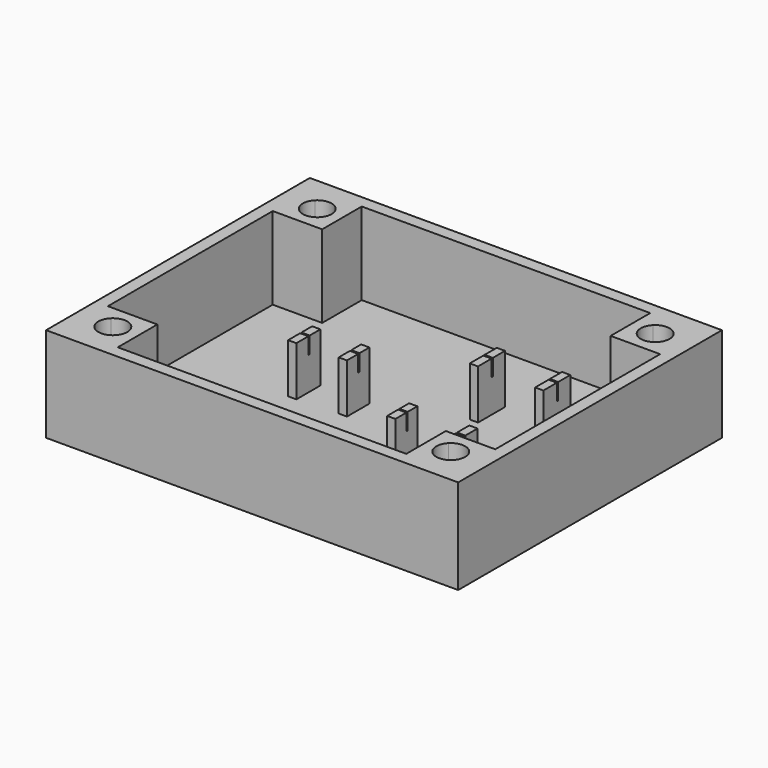
from build123d import *

# Parameters (mm, degrees)
F0_W      = 50
F0_H      = 40
F1_DEPTH  = 1.5
F2_W      = 50
F2_H      = 40
F3_DEPTH  = 10
F5_DEPTH  = 10
F7_DEPTH  = 10
F9_DEPTH  = 10
F11_DEPTH = 10
F14_W     = 1
F14_H     = 4.08333
F15_DEPTH = 6
F16_W     = 1
F16_H     = 0.2
F17_DEPTH = 2
F18_W     = 1
F18_H     = 3.60977
F19_DEPTH = 6
F20_W     = 1
F20_H     = 0.2
F21_DEPTH = 2
F22_W     = 1
F22_H     = 4.091013
F23_DEPTH = 6
F24_W     = 1
F24_H     = 0.2
F25_DEPTH = 2
F26_W     = 1
F26_H     = 3.330472
F27_DEPTH = 6
F28_W     = 1
F28_H     = 0.2
F29_DEPTH = 2
F30_W     = 1
F30_H     = 3.411457
F31_DEPTH = 6
F32_W     = 1
F32_H     = 0.2
F33_DEPTH = 2
F34_W     = 1
F34_H     = 3.646998
F35_DEPTH = 6
F36_W     = 1
F36_H     = 0.2
F37_DEPTH = 2


with BuildPart() as f1:
    # F0 (on Top) → F1 (new body)
    with BuildSketch(Plane.XY):
        with Locations((1.654343, -10.769538)):
            Rectangle(F0_W, F0_H)
    extrude(amount=F1_DEPTH)

    # F2 (on face) → F3 (join)
    with BuildSketch(Plane.XY.offset(1.5)):
        with Locations((1.654343, -10.769538)):
            Rectangle(F2_W, F2_H)
        Polygon((-21.845657, -29.269538), (-21.845657, 7.730462), (19.154343, 7.730462), (25.154343, 7.730462), (25.154343, 1.730462), (25.154343, -29.269538), align=None, mode=Mode.SUBTRACT)
    extrude(amount=F3_DEPTH)

    # F4 (on face) → F5 (join)
    with BuildSketch(Plane.XY.offset(1.5)):
        with BuildLine():
            Line((-20.083094, 5.967899), (-21.845657, 7.730462))
            Line((-21.845657, 7.730462), (-21.845657, 1.730462))
            Line((-21.845657, 1.730462), (-20.083094, 3.493025))
            ThreePointArc((-20.083094, 3.493025), (-20.595657, 4.730462), (-20.083094, 5.967899))
        make_face()
        with BuildLine():
            Line((-15.845657, 7.730462), (-21.845657, 7.730462))
            Line((-21.845657, 7.730462), (-20.083094, 5.967899))
            ThreePointArc((-20.083094, 5.967899), (-18.845657, 6.480462), (-17.60822, 5.967899))
            Line((-17.60822, 5.967899), (-15.845657, 7.730462))
        make_face()
        with BuildLine():
            Line((-15.845657, 1.730462), (-15.845657, 7.730462))
            Line((-15.845657, 7.730462), (-17.60822, 5.967899))
            ThreePointArc((-17.60822, 5.967899), (-17.228868, 5.400158), (-17.095657, 4.730462))
            ThreePointArc((-17.095657, 4.730462), (-17.228868, 4.060766), (-17.60822, 3.493025))
            Line((-17.60822, 3.493025), (-15.845657, 1.730462))
        make_face()
        with BuildLine():
            Line((-20.083094, 3.493025), (-21.845657, 1.730462))
            Line((-21.845657, 1.730462), (-15.845657, 1.730462))
            Line((-15.845657, 1.730462), (-17.60822, 3.493025))
            ThreePointArc((-17.60822, 3.493025), (-18.845657, 2.980462), (-20.083094, 3.493025))
        make_face()
    extrude(amount=F5_DEPTH)

    # F6 (on face) → F7 (join)
    with BuildSketch(Plane.XY.offset(1.5)):
        with BuildLine():
            Line((-20.083094, -27.506975), (-21.845657, -29.269538))
            Line((-21.845657, -29.269538), (-15.845657, -29.269538))
            Line((-15.845657, -29.269538), (-17.60822, -27.506975))
            ThreePointArc((-17.60822, -27.506975), (-18.845657, -28.019538), (-20.083094, -27.506975))
        make_face()
        with BuildLine():
            Line((-21.845657, -23.269538), (-21.845657, -29.269538))
            Line((-21.845657, -29.269538), (-20.083094, -27.506975))
            ThreePointArc((-20.083094, -27.506975), (-20.595657, -26.269538), (-20.083094, -25.032101))
            Line((-20.083094, -25.032101), (-21.845657, -23.269538))
        make_face()
        with BuildLine():
            Line((-17.60822, -27.506975), (-15.845657, -29.269538))
            Line((-15.845657, -29.269538), (-15.845657, -23.269538))
            Line((-15.845657, -23.269538), (-17.60822, -25.032101))
            ThreePointArc((-17.60822, -25.032101), (-17.228868, -25.599842), (-17.095657, -26.269538))
            ThreePointArc((-17.095657, -26.269538), (-17.228868, -26.939234), (-17.60822, -27.506975))
        make_face()
        with BuildLine():
            Line((-15.845657, -23.269538), (-21.845657, -23.269538))
            Line((-21.845657, -23.269538), (-20.083094, -25.032101))
            ThreePointArc((-20.083094, -25.032101), (-18.845657, -24.519538), (-17.60822, -25.032101))
            Line((-17.60822, -25.032101), (-15.845657, -23.269538))
        make_face()
    extrude(amount=F7_DEPTH)

    # F8 (on face) → F9 (join)
    with BuildSketch(Plane.XY.offset(1.5)):
        with BuildLine():
            Line((23.39178, 5.967899), (25.154343, 7.730462))
            Line((25.154343, 7.730462), (19.154343, 7.730462))
            Line((19.154343, 7.730462), (20.916906, 5.967899))
            ThreePointArc((20.916906, 5.967899), (22.154343, 6.480462), (23.39178, 5.967899))
        make_face()
        with BuildLine():
            Line((25.154343, 1.730462), (25.154343, 7.730462))
            Line((25.154343, 7.730462), (23.39178, 5.967899))
            ThreePointArc((23.39178, 5.967899), (23.771132, 5.400158), (23.904343, 4.730462))
            ThreePointArc((23.904343, 4.730462), (23.771132, 4.060766), (23.39178, 3.493025))
            Line((23.39178, 3.493025), (25.154343, 1.730462))
        make_face()
        with BuildLine():
            Line((20.916906, 5.967899), (19.154343, 7.730462))
            Line((19.154343, 7.730462), (19.154343, 1.730462))
            Line((19.154343, 1.730462), (20.916906, 3.493025))
            ThreePointArc((20.916906, 3.493025), (20.404343, 4.730462), (20.916906, 5.967899))
        make_face()
        with BuildLine():
            Line((19.154343, 1.730462), (25.154343, 1.730462))
            Line((25.154343, 1.730462), (23.39178, 3.493025))
            ThreePointArc((23.39178, 3.493025), (22.154343, 2.980462), (20.916906, 3.493025))
            Line((20.916906, 3.493025), (19.154343, 1.730462))
        make_face()
    extrude(amount=F9_DEPTH)

    # F10 (on face) → F11 (join)
    with BuildSketch(Plane.XY.offset(1.5)):
        with BuildLine():
            Line((23.39178, -27.506975), (25.154343, -29.269538))
            Line((25.154343, -29.269538), (25.154343, -23.269538))
            Line((25.154343, -23.269538), (23.39178, -25.032101))
            ThreePointArc((23.39178, -25.032101), (23.771132, -25.599842), (23.904343, -26.269538))
            ThreePointArc((23.904343, -26.269538), (23.771132, -26.939234), (23.39178, -27.506975))
        make_face()
        with BuildLine():
            Line((19.154343, -29.269538), (25.154343, -29.269538))
            Line((25.154343, -29.269538), (23.39178, -27.506975))
            ThreePointArc((23.39178, -27.506975), (22.154343, -28.019538), (20.916906, -27.506975))
            Line((20.916906, -27.506975), (19.154343, -29.269538))
        make_face()
        with BuildLine():
            Line((19.154343, -23.269538), (19.154343, -29.269538))
            Line((19.154343, -29.269538), (20.916906, -27.506975))
            ThreePointArc((20.916906, -27.506975), (20.404343, -26.269538), (20.916906, -25.032101))
            Line((20.916906, -25.032101), (19.154343, -23.269538))
        make_face()
        with BuildLine():
            Line((23.39178, -25.032101), (25.154343, -23.269538))
            Line((25.154343, -23.269538), (19.154343, -23.269538))
            Line((19.154343, -23.269538), (20.916906, -25.032101))
            ThreePointArc((20.916906, -25.032101), (22.154343, -24.519538), (23.39178, -25.032101))
        make_face()
    extrude(amount=F11_DEPTH)

    # F14 (on face) → F15 (join)
    with BuildSketch(Plane.XY.offset(1.5)):
        with Locations((15.880012, -2.9618)):
            Rectangle(F14_W, F14_H)
    extrude(amount=F15_DEPTH)

    # F16 (on face) → F17 (cut)
    with BuildSketch(Plane.XY.offset(7.5)):
        with Locations((15.880012, -2.8618)):
            Rectangle(F16_W, F16_H)
    extrude(amount=-F17_DEPTH, mode=Mode.SUBTRACT)

    # F18 (on face) → F19 (join)
    with BuildSketch(Plane.XY.offset(1.5)):
        with Locations((15.880012, -16.79546)):
            Rectangle(F18_W, F18_H)
    extrude(amount=F19_DEPTH)

    # F20 (on face) → F21 (cut)
    with BuildSketch(Plane.XY.offset(7.5)):
        with Locations((15.880012, -16.945772)):
            Rectangle(F20_W, F20_H)
    extrude(amount=-F21_DEPTH, mode=Mode.SUBTRACT)

    # F22 (on face) → F23 (join)
    with BuildSketch(Plane.XY.offset(1.5)):
        with Locations((7.957027, -2.965641)):
            Rectangle(F22_W, F22_H)
    extrude(amount=F23_DEPTH)

    # F24 (on face) → F25 (cut)
    with BuildSketch(Plane.XY.offset(7.5)):
        with Locations((7.957027, -2.865641)):
            Rectangle(F24_W, F24_H)
    extrude(amount=-F25_DEPTH, mode=Mode.SUBTRACT)

    # F26 (on face) → F27 (join)
    with BuildSketch(Plane.XY.offset(1.5)):
        with Locations((8.577565, -16.655811)):
            Rectangle(F26_W, F26_H)
    extrude(amount=F27_DEPTH)

    # F28 (on face) → F29 (cut)
    with BuildSketch(Plane.XY.offset(7.5)):
        with Locations((8.577565, -16.555811)):
            Rectangle(F28_W, F28_H)
    extrude(amount=-F29_DEPTH, mode=Mode.SUBTRACT)

    # F30 (on face) → F31 (join)
    with BuildSketch(Plane.XY.offset(1.5)):
        with Locations((-2.510325, -10.103692)):
            Rectangle(F30_W, F30_H)
    extrude(amount=F31_DEPTH)

    # F32 (on face) → F33 (cut)
    with BuildSketch(Plane.XY.offset(7.5)):
        with Locations((-2.510325, -10.003692)):
            Rectangle(F32_W, F32_H)
    extrude(amount=-F33_DEPTH, mode=Mode.SUBTRACT)

    # F34 (on face) → F35 (join)
    with BuildSketch(Plane.XY.offset(1.5)):
        with Locations((-8.459517, -10.221463)):
            Rectangle(F34_W, F34_H)
    extrude(amount=F35_DEPTH)

    # F36 (on face) → F37 (cut)
    with BuildSketch(Plane.XY.offset(7.5)):
        with Locations((-8.459517, -10.121463)):
            Rectangle(F36_W, F36_H)
    extrude(amount=-F37_DEPTH, mode=Mode.SUBTRACT)


with BuildPart() as f12_1:
    # F12: copy of F1
    add(f1.part)


solid = f1.part
